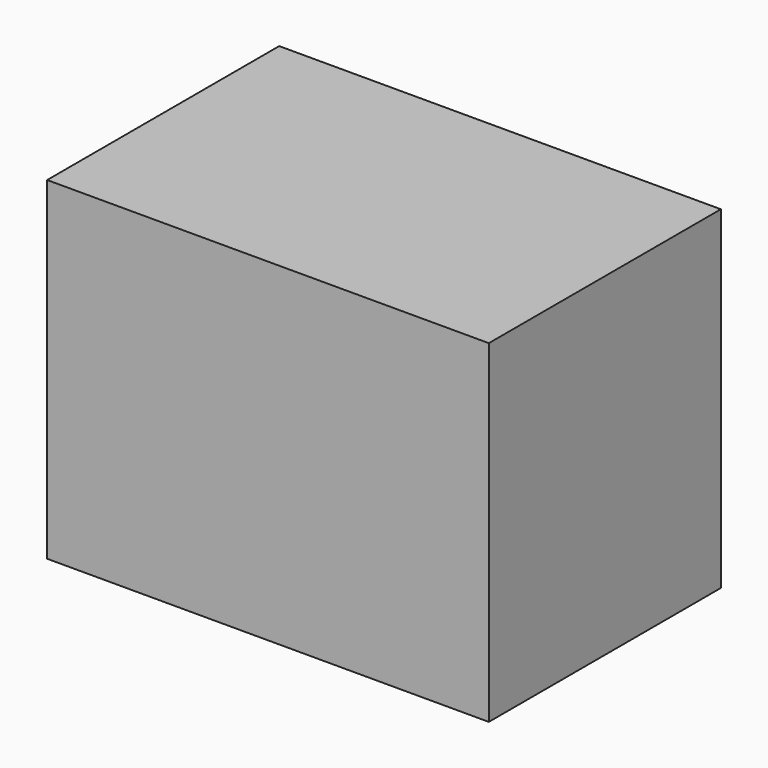
from build123d import *

# Parameters (mm, degrees)
F0_W     = 79.066466
F0_H     = 51.919734
F1_DEPTH = 59.69
F2_W     = 59.12934
F2_H     = 33.223663
F3_DEPTH = 25.4


with BuildPart() as f1:
    # F0 (on Top) → F1 (new body)
    with BuildSketch(Plane.XY):
        with Locations((-18.76018, 16.539023)):
            Rectangle(F0_W, F0_H)
    extrude(amount=F1_DEPTH)

    # F2 (on Top) → F3 (cut)
    with BuildSketch(Plane.XY):
        with Locations((-19.758568, 16.611832)):
            Rectangle(F2_W, F2_H)
    extrude(amount=-F3_DEPTH, mode=Mode.SUBTRACT)


solid = f1.part
